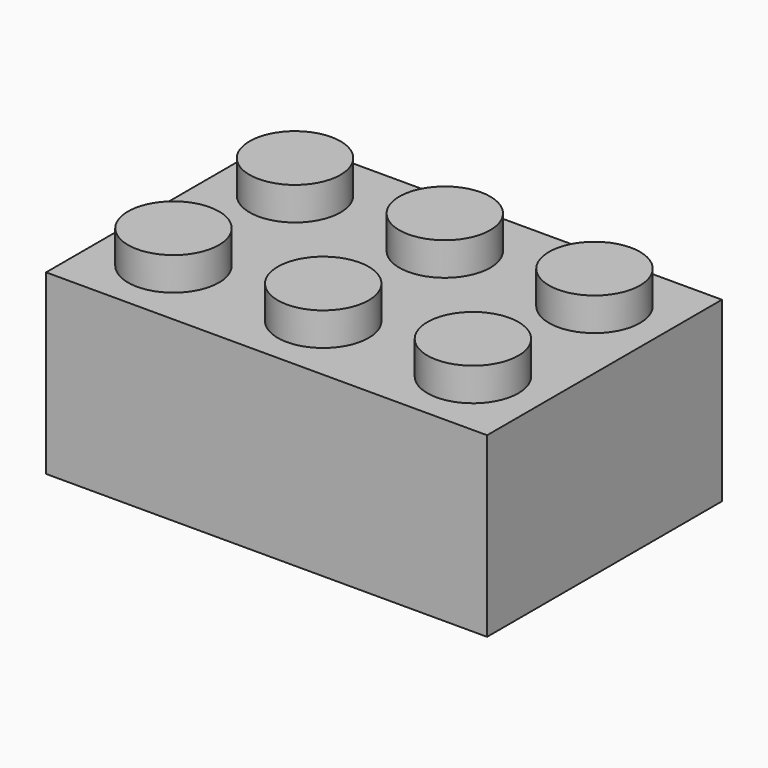
from build123d import *

# Parameters (mm, degrees)
F0_W     = 23.6982
F0_H     = 15.7734
F1_DEPTH = 9.5377
F2_R     = 2.44475
F3_DEPTH = 1.778
F4_W     = 21.4122
F4_H     = 13.4874
F4_R     = 3.2385
F5_DEPTH = 8.382
F4_R_2   = 2.33045
F6_DEPTH = 8.382


with BuildPart() as f1:
    # F0 (on Top) → F1 (new body)
    with BuildSketch(Plane.XY):
        Rectangle(F0_W, F0_H)
    extrude(amount=F1_DEPTH)

    # F2 (on face) → F3 (join)
    with BuildSketch(Plane.XY.offset(9.5377)):
        with Locations((-8.04545, -4.08305)):
            Circle(F2_R)
        with Locations((0, -4.08305)):
            Circle(F2_R)
        with Locations((8.04545, -4.08305)):
            Circle(F2_R)
        with Locations((8.04545, 4.08305)):
            Circle(F2_R)
        with Locations((0, 4.08305)):
            Circle(F2_R)
        with Locations((-8.04545, 4.08305)):
            Circle(F2_R)
    extrude(amount=F3_DEPTH)

    # F4 (on face) → F5 (cut)
    with BuildSketch(Plane(origin=(0, 0, 0), x_dir=(1, 0, 0), z_dir=(0, 0, -1))):
        Rectangle(F4_W, F4_H)
        with Locations((-6.298674, 0)):
            Circle(F4_R, mode=Mode.SUBTRACT)
        with Locations((5.322928, 0)):
            Circle(F4_R, mode=Mode.SUBTRACT)
    extrude(amount=-F5_DEPTH, mode=Mode.SUBTRACT)

    # F4 (on face) → F6 (cut)
    with BuildSketch(Plane(origin=(0, 0, 0), x_dir=(1, 0, 0), z_dir=(0, 0, -1))):
        with Locations((-6.298674, 0)):
            Circle(F4_R_2)
        with Locations((5.322928, 0)):
            Circle(F4_R_2)
    extrude(amount=-F6_DEPTH, mode=Mode.SUBTRACT)


solid = f1.part
